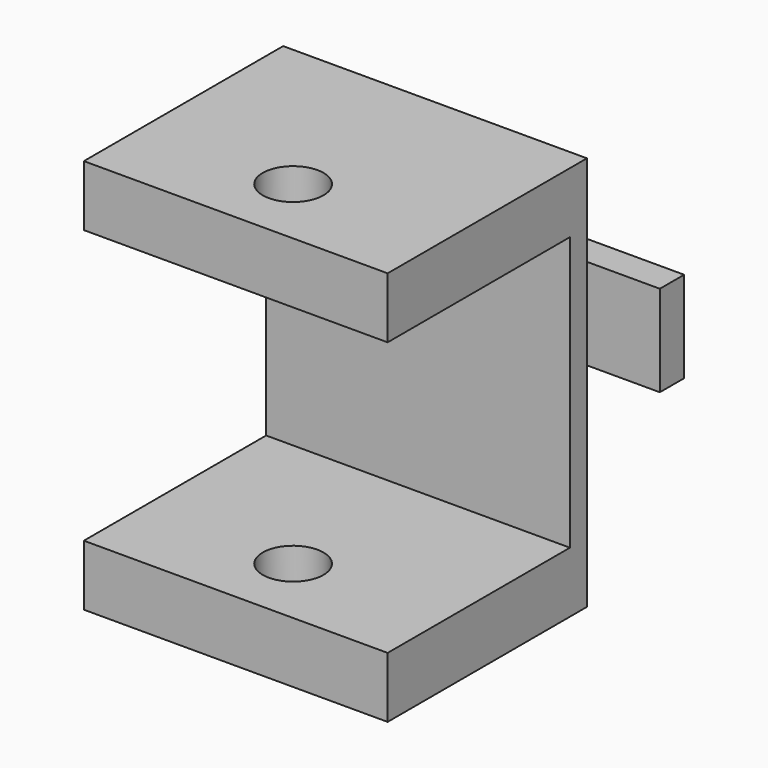
from build123d import *

# Parameters (mm, degrees)
F0_W     = 100
F0_H     = 30
F1_DEPTH = 10
F2_W     = 50
F2_H     = 30
F3_DEPTH = 30
F4_W     = 100
F4_H     = 130
F4_W_2   = 50
F4_H_2   = 30
F5_DEPTH = 7
F6_W     = 100
F6_H     = 20
F7_DEPTH = 75
F8_R     = 10
F9_DEPTH = 130.001


with BuildPart() as f1:
    # F0 (on Front) → F1 (new body)
    with BuildSketch(Plane.XZ):
        with Locations((16.147754, 1.13822)):
            Rectangle(F0_W, F0_H)
    extrude(amount=F1_DEPTH)

    # F2 (on face) → F3 (join)
    with BuildSketch(Plane.XZ.offset(10)):
        with Locations((16.147754, 1.13822)):
            Rectangle(F2_W, F2_H)
        with Locations((16.147754, 1.13822)):
            Rectangle(F2_W, F2_H)
    extrude(amount=F3_DEPTH)

    # F4 (on face) → F5 (join)
    with BuildSketch(Plane.XZ.offset(40)):
        with Locations((16.147754, 1.13822)):
            Rectangle(F4_W, F4_H)
        with Locations((16.147754, 1.13822)):
            Rectangle(F4_W_2, F4_H_2, mode=Mode.SUBTRACT)
        with Locations((16.147754, 1.13822)):
            Rectangle(F4_W_2, F4_H_2)
    extrude(amount=F5_DEPTH)

    # F6 (on face) → F7 (join)
    with BuildSketch(Plane.XZ.offset(47)):
        with Locations((16.147754, -53.86178)):
            Rectangle(F6_W, F6_H)
        with Locations((16.147754, 56.13822)):
            Rectangle(F6_W, F6_H)
    extrude(amount=F7_DEPTH)

    # F8 (on face) → F9 (cut, through all)
    with BuildSketch(Plane.XY.offset(66.13822)):
        with Locations((16.147754, -98.394804)):
            Circle(F8_R)
    extrude(amount=-F9_DEPTH, mode=Mode.SUBTRACT)


solid = f1.part
